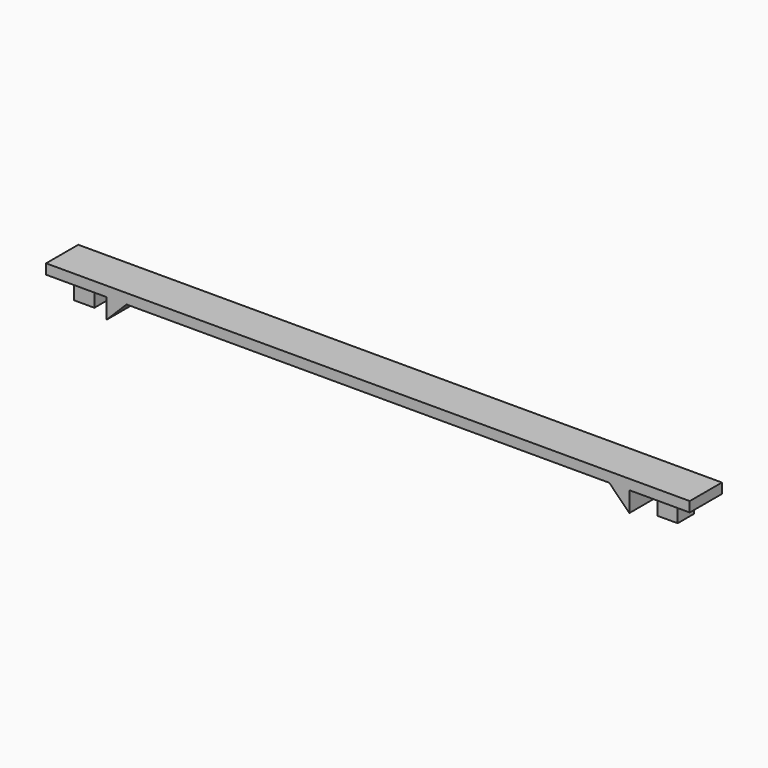
from build123d import *

# Parameters (mm, degrees)
F0_W     = 203.2
F0_H     = 12.7
F1_DEPTH = 9.525
F2_W     = 19.05
F2_H     = 6.35
F3_DEPTH = 25.4
F4_W     = 6.35
F4_H     = 6.35
F5_DEPTH = 6.35
F7_DEPTH = 25.4


with BuildPart() as f1:
    # F0 (on Top) → F1 (new body)
    with BuildSketch(Plane.XY):
        Rectangle(F0_W, F0_H)
    extrude(amount=F1_DEPTH)

    # F2 (on face) → F3 (cut)
    with BuildSketch(Plane(origin=(0, 6.35, 0), x_dir=(-1, 0, 0), z_dir=(0, 1, 0))):
        with Locations((-92.075, 3.175)):
            Rectangle(F2_W, F2_H)
        with Locations((92.075, 3.175)):
            Rectangle(F2_W, F2_H)
    extrude(amount=-F3_DEPTH, mode=Mode.SUBTRACT)

    # F4 (on face) → F5 (join, through all)
    with BuildSketch(Plane(origin=(0, 0, 0), x_dir=(1, 0, 0), z_dir=(0, 0, -1))):
        with Locations((-92.075, 0)):
            Rectangle(F4_W, F4_H)
        with Locations((92.075, 0)):
            Rectangle(F4_W, F4_H)
    extrude(amount=-F5_DEPTH)

    # F6 (on face) → F7 (cut)
    with BuildSketch(Plane(origin=(0, 6.35, 0), x_dir=(-1, 0, 0), z_dir=(0, 1, 0))):
        Polygon((-82.55, 0), (82.55, 0), (76.2, 6.35), (-76.2, 6.35), align=None)
    extrude(amount=-F7_DEPTH, mode=Mode.SUBTRACT)


solid = f1.part
